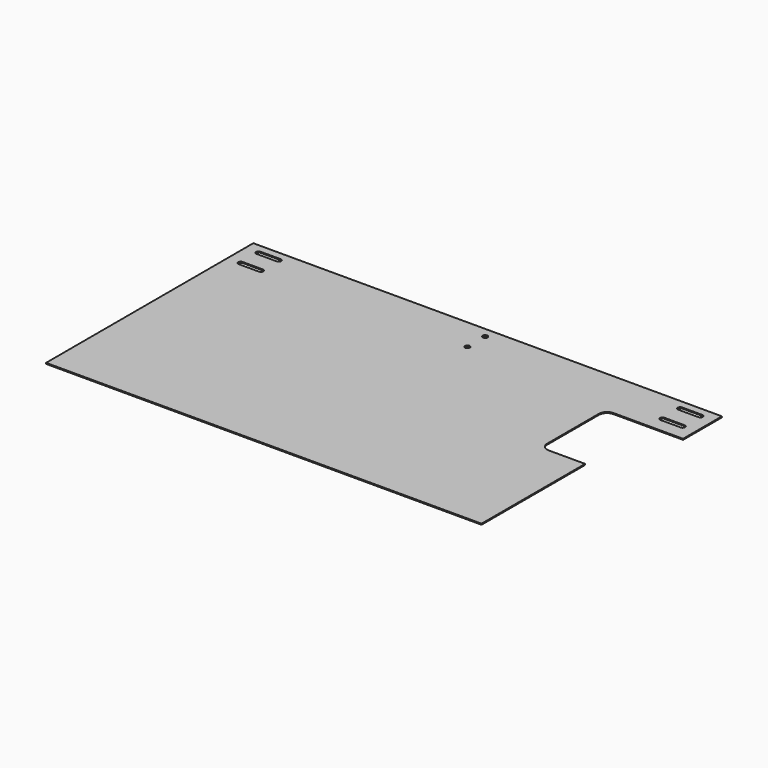
from build123d import *

# Parameters (mm, degrees)
F0_R     = 6
F1_DEPTH = 2.5


with BuildPart() as f1:
    # F0 (on Top) → F1 (new body)
    with BuildSketch(Plane.XY):
        with BuildLine():
            Line((0, 640), (0, 0))
            Line((0, 0), (1076, 0))
            Line((1076, 0), (1076, 320))
            Line((1076, 320), (986, 320))
            ThreePointArc((986, 320), (971.857864, 325.857864), (966, 340))
            Line((966, 340), (966, 500))
            ThreePointArc((966, 500), (971.857864, 514.142136), (986, 520))
            Line((986, 520), (1158, 520))
            Line((1158, 520), (1158, 640))
            Line((1158, 640), (0, 640))
        make_face()
        with BuildLine():
            ThreePointArc((33, 554), (27, 560), (33, 566))
            Line((33, 566), (83, 566))
            ThreePointArc((83, 566), (89, 560), (83, 554))
            Line((83, 554), (33, 554))
        make_face(mode=Mode.SUBTRACT)
        with BuildLine():
            ThreePointArc((33, 609), (27, 615), (33, 621))
            Line((33, 621), (83, 621))
            ThreePointArc((83, 621), (89, 615), (83, 609))
            Line((83, 609), (33, 609))
        make_face(mode=Mode.SUBTRACT)
        with Locations((593, 560)):
            Circle(F0_R, mode=Mode.SUBTRACT)
        with Locations((593, 615)):
            Circle(F0_R, mode=Mode.SUBTRACT)
        with BuildLine():
            ThreePointArc((1075, 554), (1069, 560), (1075, 566))
            Line((1075, 566), (1125, 566))
            ThreePointArc((1125, 566), (1131, 560), (1125, 554))
            Line((1125, 554), (1075, 554))
        make_face(mode=Mode.SUBTRACT)
        with BuildLine():
            ThreePointArc((1075, 609), (1069, 615), (1075, 621))
            Line((1075, 621), (1125, 621))
            ThreePointArc((1125, 621), (1131, 615), (1125, 609))
            Line((1125, 609), (1075, 609))
        make_face(mode=Mode.SUBTRACT)
    extrude(amount=F1_DEPTH)


solid = f1.part
